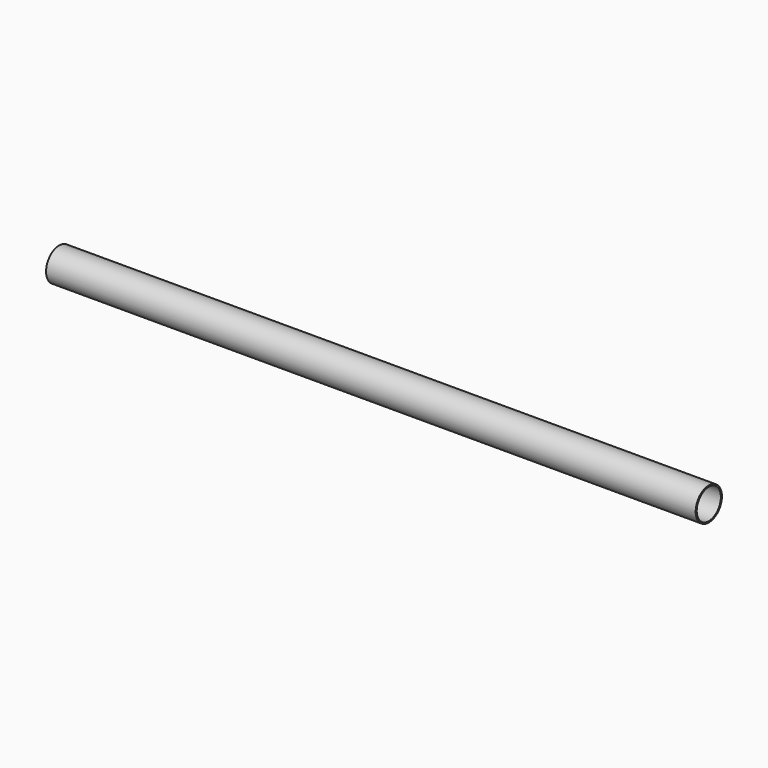
from build123d import *

# Parameters (mm, degrees)
SKETCH_R   = 12.5
SKETCH_R_2 = 11.5
PAD_DEPTH  = 495


with BuildPart() as part:
    # Sketch → Pad (new body)
    with BuildSketch(Plane.YZ):
        Circle(SKETCH_R)
        Circle(SKETCH_R_2, mode=Mode.SUBTRACT)
    extrude(amount=PAD_DEPTH)


solid = part.part
